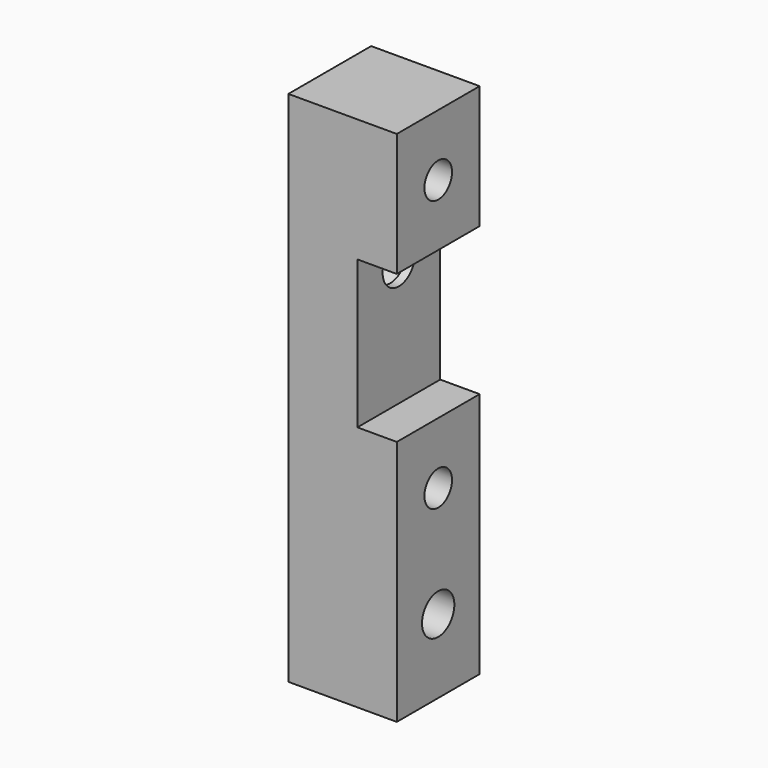
from build123d import *

# Parameters (mm, degrees)
F1_DEPTH = 10.5
F2_R     = 1.75
F3_DEPTH = 50
F2_R_2   = 3.5
F4_DEPTH = 5
F2_R_3   = 2.05
F5_DEPTH = 20
F8_DEPTH = 4


with BuildPart() as f1:
    # F0 (on Front) → F1 (new body)
    with BuildSketch(Plane.XZ):
        Polygon((9.366447, 24.13893), (1.366447, 24.13893), (1.366447, -28.36107), (12.366447, -28.36107), (12.366447, -3.36107), (8.366447, -3.36107), (8.366447, 11.63893), (12.366447, 11.63893), (12.366447, 24.13893), align=None)
    extrude(amount=F1_DEPTH)

    # F2 (on Right) → F3 (cut)
    with BuildSketch(Plane.YZ):
        with Locations((-5.25, -9.61107)):
            Circle(F2_R)
        with Locations((-5.25, 17.88893)):
            Circle(F2_R)
    extrude(amount=F3_DEPTH, mode=Mode.SUBTRACT)

    # F2 (on Right) → F4 (cut)
    with BuildSketch(Plane.YZ):
        with Locations((-5.25, -9.61107)):
            Circle(F2_R_2)
        with Locations((-5.25, -9.61107)):
            Circle(F2_R, mode=Mode.SUBTRACT)
        with Locations((-5.25, 17.88893)):
            Circle(F2_R_2)
        with Locations((-5.25, 17.88893)):
            Circle(F2_R, mode=Mode.SUBTRACT)
    extrude(amount=F4_DEPTH, mode=Mode.SUBTRACT)

    # F2 (on Right) → F5 (cut)
    with BuildSketch(Plane.YZ):
        with Locations((-5.256939, -20.86107)):
            Circle(F2_R_3)
        with Locations((-5.25, 9.13893)):
            Circle(F2_R_3)
    extrude(amount=F5_DEPTH, mode=Mode.SUBTRACT)

    # F7 (on offset) → F8 (cut)
    with BuildSketch(Plane.YZ.offset(7.5)):
        Polygon((-6.44787, -16.527179), (-9.611129, -19.727772), (-8.420963, -24.06753), (-4.067539, -25.206696), (-0.90428, -22.006103), (-2.094446, -17.666345), align=None)
        Polygon((-6.461621, 13.450113), (-9.632396, 10.256967), (-8.452437, 5.914422), (-4.101703, 4.765023), (-0.930928, 7.95817), (-2.110887, 12.300715), align=None)
    extrude(amount=-F8_DEPTH, mode=Mode.SUBTRACT)


solid = f1.part
